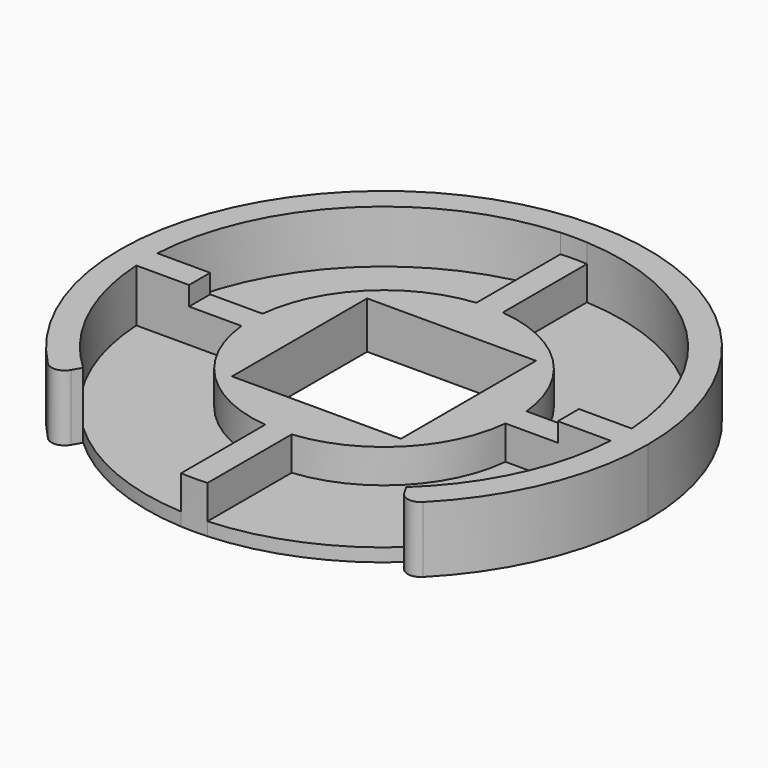
from build123d import *

# Parameters (mm, degrees)
F0_W     = 8.128
F0_H     = 8.128
F1_DEPTH = 2.2606
F2_DEPTH = 0.635
F3_DEPTH = 3.175
F4_R     = 0.635


with BuildPart() as f1:
    # F0 (on Top) → F1 (new body)
    with BuildSketch(Plane.XY):
        with BuildLine():
            ThreePointArc((-6.3506963536, -0.635), (-4.5130128061, -4.5130128061), (-0.635, -6.3506963536))
            ThreePointArc((-0.635, -6.3506963536), (0, -6.3823639175), (0.635, -6.3506963536))
            ThreePointArc((0.635, -6.3506963536), (4.5130128061, -4.5130128061), (6.3506963536, -0.635))
            ThreePointArc((6.3506963536, -0.635), (6.3744421102, -0.3178945716), (6.3823639175, 0))
            ThreePointArc((6.3823639175, 0), (6.3744421102, 0.3178945716), (6.3506963536, 0.635))
            ThreePointArc((6.3506963536, 0.635), (4.5130128061, 4.5130128061), (0.635, 6.3506963536))
            ThreePointArc((0.635, 6.3506963536), (0, 6.3823639175), (-0.635, 6.3506963536))
            ThreePointArc((-0.635, 6.3506963536), (-4.5130128061, 4.5130128061), (-6.3506963536, 0.635))
            ThreePointArc((-6.3506963536, 0.635), (-6.3823639175, 0), (-6.3506963536, -0.635))
        make_face()
        Rectangle(F0_W, F0_H, mode=Mode.SUBTRACT)
        with BuildLine():
            Line((-0.635, -6.3506963536), (-0.635, -11.4123474798))
            ThreePointArc((-0.635, -11.4123474798), (0, -11.43), (0.635, -11.4123474798))
            Line((0.635, -11.4123474798), (0.635, -6.3506963536))
            ThreePointArc((0.635, -6.3506963536), (0, -6.3823639175), (-0.635, -6.3506963536))
        make_face()
        with BuildLine():
            ThreePointArc((0.635, 11.4123474798), (0, 11.43), (-0.635, 11.4123474798))
            Line((-0.635, 11.4123474798), (-0.635, 6.3506963536))
            ThreePointArc((-0.635, 6.3506963536), (0, 6.3823639175), (0.635, 6.3506963536))
            Line((0.635, 6.3506963536), (0.635, 11.4123474798))
        make_face()
        with BuildLine():
            Line((-8.8723474798, 0.635), (-8.8723474798, -0.635))
            Line((-8.8723474798, -0.635), (-6.3506963536, -0.635))
            ThreePointArc((-6.3506963536, -0.635), (-6.3823639175, 0), (-6.3506963536, 0.635))
            Line((-6.3506963536, 0.635), (-8.8723474798, 0.635))
        make_face()
        with BuildLine():
            Line((6.3506963536, -0.635), (8.8723474798, -0.635))
            Line((8.8723474798, -0.635), (8.8723474798, 0.635))
            Line((8.8723474798, 0.635), (6.3506963536, 0.635))
            ThreePointArc((6.3506963536, 0.635), (6.3744421102, 0.3178945716), (6.3823639175, 0))
            ThreePointArc((6.3823639175, 0), (6.3744421102, -0.3178945716), (6.3506963536, -0.635))
        make_face()
    extrude(amount=F1_DEPTH)

    # F0 (on Top) → F2 (join)
    with BuildSketch(Plane.XY):
        with BuildLine():
            ThreePointArc((-0.635, 11.4123474798), (-8.082230509, 8.082230509), (-11.4123474798, 0.635))
            Line((-11.4123474798, 0.635), (-8.8723474798, 0.635))
            Line((-8.8723474798, 0.635), (-6.3506963536, 0.635))
            ThreePointArc((-6.3506963536, 0.635), (-4.5130128061, 4.5130128061), (-0.635, 6.3506963536))
            Line((-0.635, 6.3506963536), (-0.635, 11.4123474798))
        make_face()
        with BuildLine():
            Line((8.8723474798, 0.635), (11.4123474798, 0.635))
            ThreePointArc((11.4123474798, 0.635), (8.082230509, 8.082230509), (0.635, 11.4123474798))
            Line((0.635, 11.4123474798), (0.635, 6.3506963536))
            ThreePointArc((0.635, 6.3506963536), (4.5130128061, 4.5130128061), (6.3506963536, 0.635))
            Line((6.3506963536, 0.635), (8.8723474798, 0.635))
        make_face()
        with BuildLine():
            ThreePointArc((0.635, -11.4123474798), (4.4682903074, -10.5204221269), (7.7718069116, -8.3811644375))
            ThreePointArc((7.7718069116, -8.3811644375), (10.3445014767, -4.8617064081), (11.4123474798, -0.635))
            Line((11.4123474798, -0.635), (8.8723474798, -0.635))
            Line((8.8723474798, -0.635), (6.3506963536, -0.635))
            ThreePointArc((6.3506963536, -0.635), (4.5130128061, -4.5130128061), (0.635, -6.3506963536))
            Line((0.635, -6.3506963536), (0.635, -11.4123474798))
        make_face()
        with BuildLine():
            ThreePointArc((-11.4123474798, -0.635), (-10.3445014767, -4.8617064081), (-7.7718069116, -8.3811644375))
            ThreePointArc((-7.7718069116, -8.3811644375), (-4.4682903074, -10.5204221269), (-0.635, -11.4123474798))
            Line((-0.635, -11.4123474798), (-0.635, -6.3506963536))
            ThreePointArc((-0.635, -6.3506963536), (-4.5130128061, -4.5130128061), (-6.3506963536, -0.635))
            Line((-6.3506963536, -0.635), (-8.8723474798, -0.635))
            Line((-8.8723474798, -0.635), (-11.4123474798, -0.635))
        make_face()
    extrude(amount=F2_DEPTH)

    # F0 (on Top) → F3 (join)
    with BuildSketch(Plane.XY):
        with BuildLine():
            ThreePointArc((-11.4123474798, 0.635), (-11.43, 0), (-11.4123474798, -0.635))
            Line((-11.4123474798, -0.635), (-8.8723474798, -0.635))
            Line((-8.8723474798, -0.635), (-8.8723474798, 0.635))
            Line((-8.8723474798, 0.635), (-11.4123474798, 0.635))
        make_face()
        with BuildLine():
            Line((8.8723474798, -0.635), (11.4123474798, -0.635))
            ThreePointArc((11.4123474798, -0.635), (11.4255860177, -0.317622658), (11.43, 0))
            ThreePointArc((11.43, 0), (11.4255860177, 0.317622658), (11.4123474798, 0.635))
            Line((11.4123474798, 0.635), (8.8723474798, 0.635))
            Line((8.8723474798, 0.635), (8.8723474798, -0.635))
        make_face()
        with BuildLine():
            ThreePointArc((8.4214084723, -9.5063073453), (11.581059701, -5.2123944786), (12.7, 0))
            ThreePointArc((12.7, 0), (-5.2123944786, 11.581059701), (-8.4214084723, -9.5063073453))
            Line((-8.4214084723, -9.5063073453), (-7.7718069116, -8.3811644375))
            ThreePointArc((-7.7718069116, -8.3811644375), (-10.3445014767, -4.8617064081), (-11.4123474798, -0.635))
            ThreePointArc((-11.4123474798, -0.635), (-11.43, 0), (-11.4123474798, 0.635))
            ThreePointArc((-11.4123474798, 0.635), (-8.082230509, 8.082230509), (-0.635, 11.4123474798))
            ThreePointArc((-0.635, 11.4123474798), (0, 11.43), (0.635, 11.4123474798))
            ThreePointArc((0.635, 11.4123474798), (8.082230509, 8.082230509), (11.4123474798, 0.635))
            ThreePointArc((11.4123474798, 0.635), (11.4255860177, 0.317622658), (11.43, 0))
            ThreePointArc((11.43, 0), (11.4255860177, -0.317622658), (11.4123474798, -0.635))
            ThreePointArc((11.4123474798, -0.635), (10.3445014767, -4.8617064081), (7.7718069116, -8.3811644375))
            Line((7.7718069116, -8.3811644375), (8.4214084723, -9.5063073453))
        make_face()
    extrude(amount=F3_DEPTH)

    # F4
    f4_edges = [f1.edges().sort_by_distance(p)[0] for p in [
        (-8.421408, -9.506307, 1.5875),
        (8.421408, -9.506307, 1.5875),
    ]]
    fillet(f4_edges, radius=F4_R)


solid = f1.part
